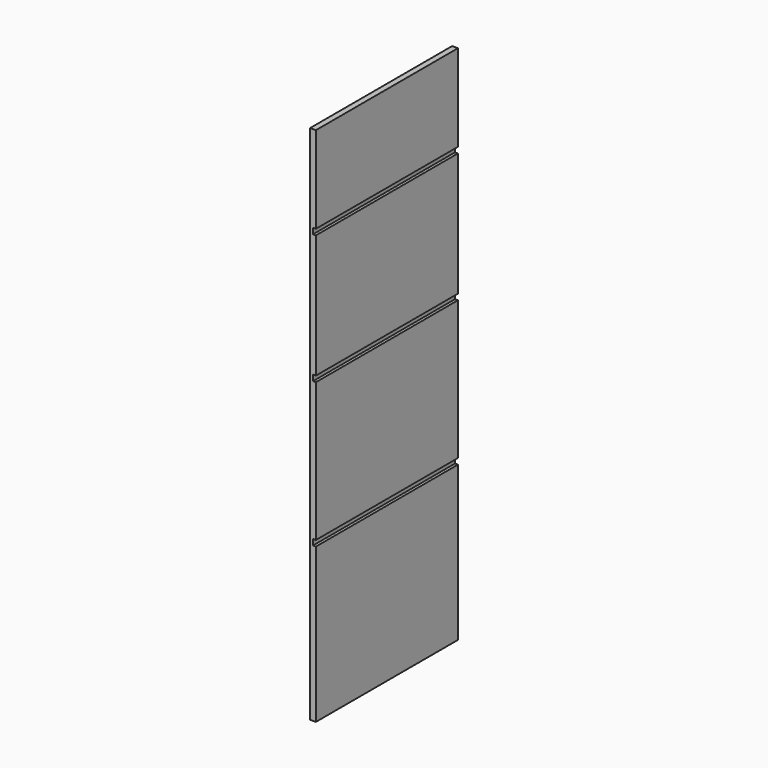
from build123d import *

# Parameters (mm, degrees)
F0_W     = 584.2
F0_H     = 1714.5
F1_DEPTH = 19.05
F2_W     = 9.525
F2_H     = 19.05
F3_DEPTH = 584.2


with BuildPart() as f1:
    # F0 (on Right) → F1 (new body)
    with BuildSketch(Plane.YZ):
        with Locations((292.1, -857.25)):
            Rectangle(F0_W, F0_H)
    extrude(amount=F1_DEPTH)

    # F2 (on face) → F3 (cut)
    with BuildSketch(Plane.XZ):
        with Locations((14.2875, -295.275)):
            Rectangle(F2_W, F2_H)
        with Locations((14.2875, -720.725)):
            Rectangle(F2_W, F2_H)
        with Locations((14.2875, -1196.975)):
            Rectangle(F2_W, F2_H)
    extrude(amount=-F3_DEPTH, mode=Mode.SUBTRACT)


solid = f1.part
